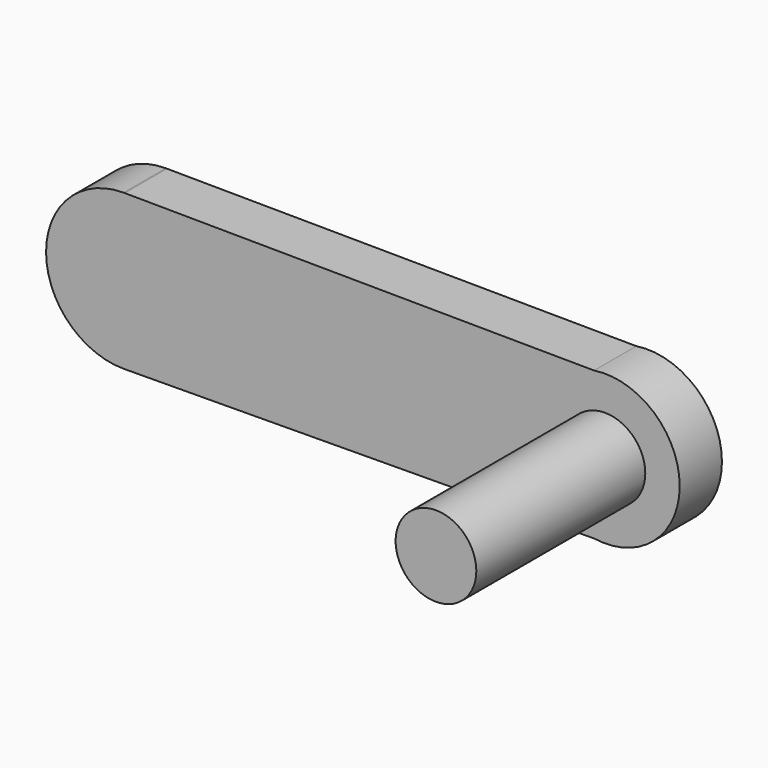
from build123d import *

# Parameters (mm, degrees)
F1_DEPTH = 3.175
F2_R     = 2.4257
F3_DEPTH = 12.7
F4_R     = 1.1938
F5_DEPTH = 2.3876


with BuildPart() as f1:
    # F0 (on Front) → F1 (new body)
    with BuildSketch(Plane.XZ):
        with BuildLine():
            Line((-28.943281, 4.662325), (-28.87206, 4.661781))
            ThreePointArc((-28.87206, 4.661781), (-28.907669, 4.662189), (-28.943281, 4.662325))
        make_face()
        with BuildLine():
            Line((-0.656047, 4.446255), (-28.87206, 4.661781))
            Line((-28.87206, 4.661781), (-28.943281, 4.662325))
            ThreePointArc((-28.943281, 4.662325), (-33.605606, 0), (-28.943281, -4.662325))
            Line((-28.943281, -4.662325), (-0.655231, -4.446375))
            ThreePointArc((-0.655231, -4.446375), (4.494394, 0.000412), (-0.656047, 4.446255))
        make_face()
    extrude(amount=F1_DEPTH)

    # F2 (on face) → F3 (join)
    with BuildSketch(Plane.XZ.offset(3.175)):
        Circle(F2_R)
    extrude(amount=F3_DEPTH)

    # F4 (on face) → F5 (join)
    with BuildSketch(Plane(origin=(0, 0, 0), x_dir=(-1, 0, 0), z_dir=(0, 1, 0))):
        with Locations((28.943281, 0)):
            Circle(F4_R)
        with Locations((12.433281, 0)):
            Circle(F4_R)
    extrude(amount=F5_DEPTH)


solid = f1.part
